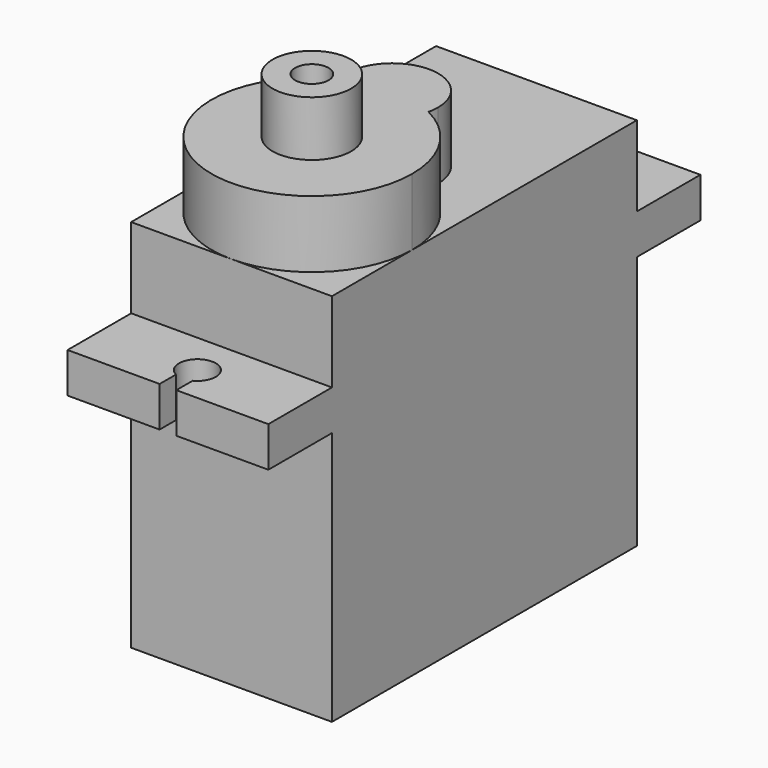
from build123d import *

# Parameters (mm, degrees)
F0_W      = 12
F0_H      = 22.78
F1_DEPTH  = 15.2
F2_W      = 12
F2_H      = 22.78
F3_DEPTH  = 2.4
F4_W      = 12
F4_H      = 22.78
F5_DEPTH  = 4.8
F7_DEPTH  = 4
F8_R      = 2.35
F9_DEPTH  = 3.3
F10_R     = 1
F11_DEPTH = 3.3


with BuildPart() as f1:
    # F0 (on Top) → F1 (new body)
    with BuildSketch(Plane.XY):
        Rectangle(F0_W, F0_H)
    extrude(amount=F1_DEPTH)

    # F2 (on face) → F3 (join)
    with BuildSketch(Plane.XY.offset(15.2)):
        with BuildLine():
            Line((-6, 16.14), (-6, 11.39))
            Line((-6, 11.39), (6, 11.39))
            Line((6, 11.39), (6, 16.14))
            Line((6, 16.14), (0.5, 16.14))
            Line((0.5, 16.14), (0.5, 14.9197958971))
            ThreePointArc((0.5, 14.9197958971), (0, 12.84), (-0.5, 14.9197958971))
            Line((-0.5, 14.9197958971), (-0.5, 16.14))
            Line((-0.5, 16.14), (-6, 16.14))
        make_face()
        Rectangle(F2_W, F2_H)
        with BuildLine():
            Line((6, -11.39), (-6, -11.39))
            Line((-6, -11.39), (-6, -16.14))
            Line((-6, -16.14), (-0.5, -16.14))
            Line((-0.5, -16.14), (-0.5, -14.9197958971))
            ThreePointArc((-0.5, -14.9197958971), (0, -12.84), (0.5, -14.9197958971))
            Line((0.5, -14.9197958971), (0.5, -16.14))
            Line((0.5, -16.14), (6, -16.14))
            Line((6, -16.14), (6, -11.39))
        make_face()
    extrude(amount=F3_DEPTH)

    # F4 (on face) → F5 (join)
    with BuildSketch(Plane.XY.offset(17.6)):
        Rectangle(F4_W, F4_H)
    extrude(amount=F5_DEPTH)

    # F6 (on face) → F7 (join)
    with BuildSketch(Plane.XY.offset(22.4)):
        with BuildLine():
            ThreePointArc((-2.6768147968, -0.0202083333), (-3.15746031, -10.4920039583), (6, -5.39))
            ThreePointArc((6, -5.39), (5.1020039583, -2.23253969), (2.6768147968, -0.0202083333))
            ThreePointArc((2.6768147968, -0.0202083333), (0, -2.14), (-2.6768147968, -0.0202083333))
        make_face()
        with BuildLine():
            ThreePointArc((-2.6768147968, -0.0202083333), (0, -2.14), (2.6768147968, -0.0202083333))
            ThreePointArc((2.6768147968, -0.0202083333), (0, 0.61), (-2.6768147968, -0.0202083333))
        make_face()
        with BuildLine():
            ThreePointArc((-2.6768147968, -0.0202083333), (0, 0.61), (2.6768147968, -0.0202083333))
            ThreePointArc((2.6768147968, -0.0202083333), (2.7316424264, 0.2927782253), (2.75, 0.61))
            ThreePointArc((2.75, 0.61), (-0.3172217747, 3.3416424264), (-2.6768147968, -0.0202083333))
        make_face()
    extrude(amount=F7_DEPTH)


with BuildPart() as f9:
    # F8 (on face) → F9 (new body)
    with BuildSketch(Plane.XY.offset(26.4)):
        with Locations((0, -5.39)):
            Circle(F8_R)
    extrude(amount=F9_DEPTH)

    # F10 (on face) → F11 (cut, through all)
    with BuildSketch(Plane.XY.offset(29.7)):
        with Locations((0, -5.39)):
            Circle(F10_R)
    extrude(amount=-F11_DEPTH, mode=Mode.SUBTRACT)


solid = Compound([f1.part, f9.part])
